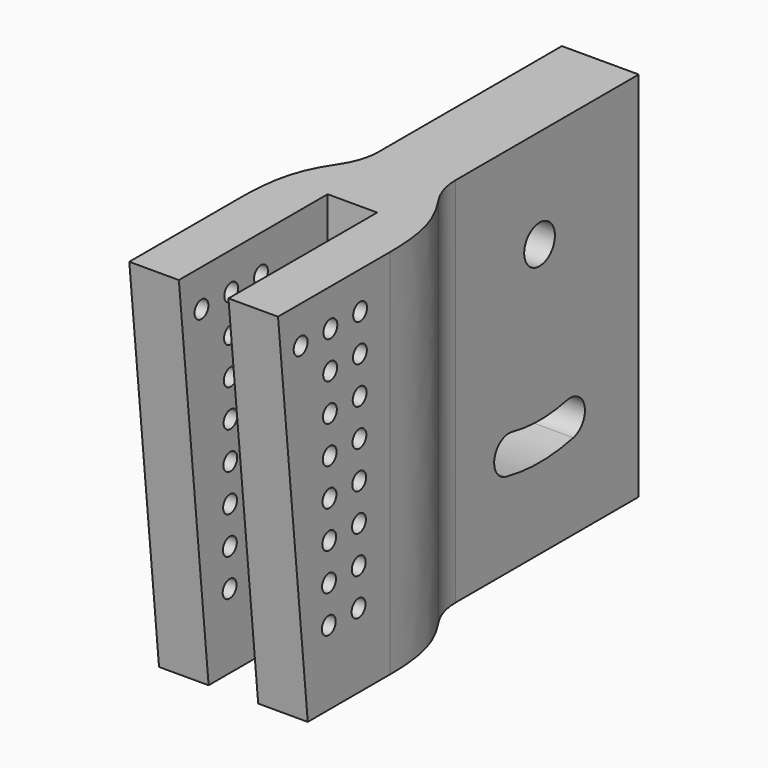
from build123d import *

# Parameters (mm, degrees)
F1_DEPTH = 30
F2_R     = 1.55
F3_DEPTH = 25
F5_DEPTH = 25
F6_R     = 0.7
F7_DEPTH = 25


with BuildPart() as f1:
    # F0 (on Top) → F1 (new body)
    with BuildSketch(Plane.XY):
        with BuildLine():
            Line((3.1, 40), (0, 40))
            Line((0, 40), (-3.1, 40))
            Line((-3.1, 40), (-3.1, 21.539828))
            ThreePointArc((-3.1, 21.539828), (-3.314209, 20.092001), (-3.938482, 18.768229))
            add(Edge.make_bspline(
                [(-3.938482, 18.768229), (-5.157937, 16.937234), (-5.993951, 15.261912), (-6, 11.27962)],
                knots=[1.631065, 1.631065, 1.631065, 1.631065, 9.189941, 9.189941, 9.189941, 9.189941], degree=3))
            Line((-6, 11.27962), (-6, 0))
            Line((-6, 0), (-2, 0))
            Line((-2, 0), (-2, 15))
            Line((-2, 15), (0, 15))
            Line((0, 15), (2, 15))
            Line((2, 15), (2, 0))
            Line((2, 0), (6, 0))
            Line((6, 0), (6, 11.27962))
            add(Edge.make_bspline(
                [(3.938482, 18.768229), (5.157937, 16.937234), (5.993951, 15.261912), (6, 11.27962)],
                knots=[1.631065, 1.631065, 1.631065, 1.631065, 9.189941, 9.189941, 9.189941, 9.189941], degree=3))
            ThreePointArc((3.938482, 18.768229), (3.314209, 20.092001), (3.1, 21.539828))
            Line((3.1, 21.539828), (3.1, 40))
        make_face()
    extrude(amount=F1_DEPTH)

    # F2 (on face) → F3 (cut)
    with BuildSketch(Plane.YZ.offset(3.1)):
        with Locations((30, 22)):
            Circle(F2_R)
        with BuildLine():
            ThreePointArc((26.592245, 6.879246), (30, 6.5), (33.407755, 6.879246))
            ThreePointArc((33.407755, 6.879246), (34.541271, 8.672327), (32.74819, 9.805843))
            ThreePointArc((32.74819, 9.805843), (30, 9.5), (27.25181, 9.805843))
            ThreePointArc((27.25181, 9.805843), (25.458729, 8.672327), (26.592245, 6.879246))
        make_face()
    extrude(amount=-F3_DEPTH, mode=Mode.SUBTRACT)

    # F4 (on face) → F5 (cut)
    with BuildSketch(Plane.YZ.offset(6)):
        Polygon((3, 0), (0, 30), (0, 0), align=None)
    extrude(amount=-F5_DEPTH, mode=Mode.SUBTRACT)

    # F6 (on face) → F7 (cut)
    with BuildSketch(Plane.YZ.offset(6)):
        with Locations((8.27962, 27)):
            Circle(F6_R)
        with Locations((5.27962, 27)):
            Circle(F6_R)
        with Locations((2.27962, 27)):
            Circle(F6_R)
        with Locations((5.256872, 24.000086)):
            Circle(F6_R)
        with Locations((8.256872, 24.000086)):
            Circle(F6_R)
        with Locations((5.234124, 21.000172)):
            Circle(F6_R)
        with Locations((8.234124, 21.000172)):
            Circle(F6_R)
        with Locations((5.211376, 18.000259)):
            Circle(F6_R)
        with Locations((8.211376, 18.000259)):
            Circle(F6_R)
        with Locations((5.188628, 15.000345)):
            Circle(F6_R)
        with Locations((8.188628, 15.000345)):
            Circle(F6_R)
        with Locations((5.16588, 12.000431)):
            Circle(F6_R)
        with Locations((8.16588, 12.000431)):
            Circle(F6_R)
        with Locations((5.143132, 9.000517)):
            Circle(F6_R)
        with Locations((8.143132, 9.000517)):
            Circle(F6_R)
        with Locations((5.120384, 6.000604)):
            Circle(F6_R)
        with Locations((8.120384, 6.000604)):
            Circle(F6_R)
    extrude(amount=-F7_DEPTH, mode=Mode.SUBTRACT)


solid = f1.part
